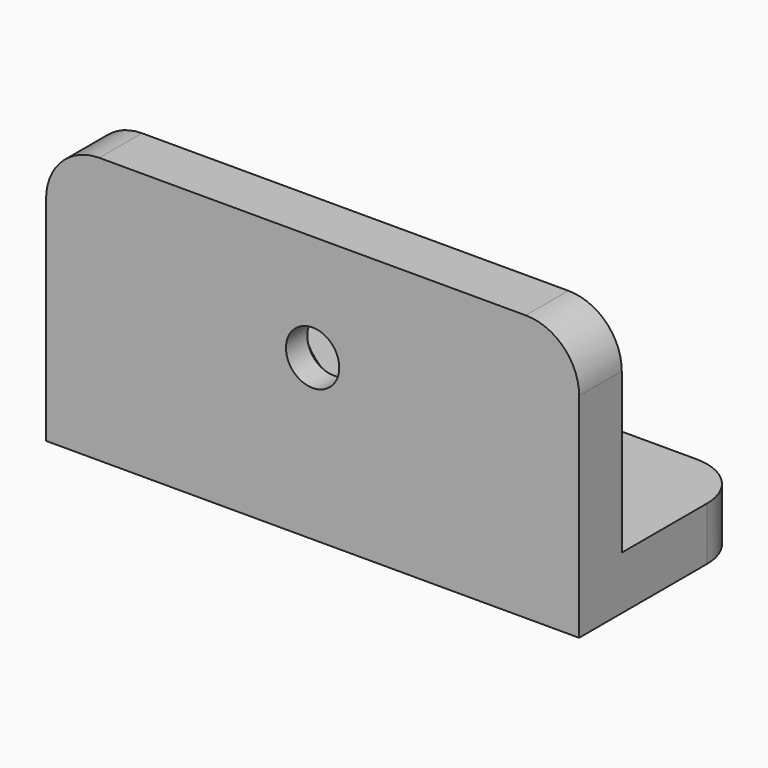
from build123d import *

# Parameters (mm, degrees)
F0_W           = 100
F0_H           = 40
F1_DEPTH       = 5
F2_R           = 10
F3_W           = 100
F3_H           = 40
F4_DEPTH       = 10
F5_R           = 10
F8_D           = 10
F9_D           = 10
F9_CBORE_D     = 20
F9_CBORE_DEPTH = 5


with BuildPart() as f1:
    # F0 (on Front) → F1 (new body, symmetric)
    with BuildSketch(Plane.XZ):
        with Locations((0, 20)):
            Rectangle(F0_W, F0_H)
    extrude(amount=F1_DEPTH, both=True)

    # F2
    f2_edges = [f1.edges().sort_by_distance(p)[0] for p in [
        (-50, 0, 40),
        (50, 0, 40),
    ]]
    fillet(f2_edges, radius=F2_R)

    # F3 (on Top) → F4 (join)
    with BuildSketch(Plane.XY):
        with Locations((0, 15)):
            Rectangle(F3_W, F3_H)
    extrude(amount=-F4_DEPTH)

    # F5
    f5_edges = [f1.edges().sort_by_distance(p)[0] for p in [
        (-50, 35, -5),
        (50, 35, -5),
    ]]
    fillet(f5_edges, radius=F5_R)

    # F8 (through all)
    with Locations(Plane.XY):
        with Locations((25, 20), (-25, 20)):
            Hole(F8_D / 2)

    # F9 (through all)
    with Locations(Plane(origin=(0, 5, 0), x_dir=(-1, 0, 0), z_dir=(0, 1, 0))):
        with Locations((0, 20)):
            CounterBoreHole(F9_D / 2, F9_CBORE_D / 2, F9_CBORE_DEPTH)


solid = f1.part
